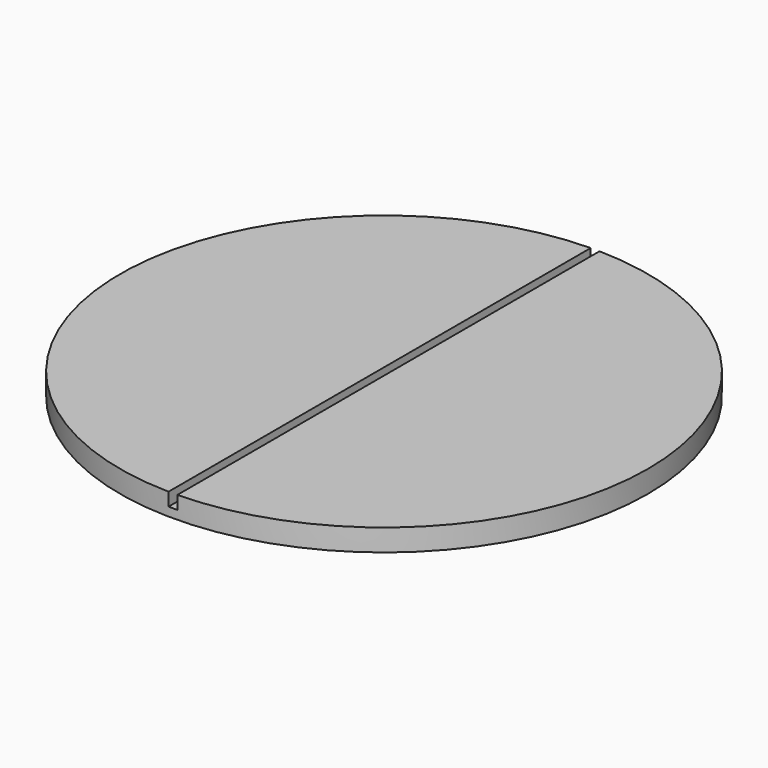
from build123d import *

# Parameters (mm, degrees)
F0_R     = 76.2
F1_DEPTH = 6.35
F3_DEPTH = 3.81


with BuildPart() as f1:
    # F0 (on Top) → F1 (new body)
    with BuildSketch(Plane.XY):
        Circle(F0_R)
    extrude(amount=F1_DEPTH)

    # F2 (on face) → F3 (cut)
    with BuildSketch(Plane.XY.offset(6.35)):
        with BuildLine():
            Line((0, 76.2), (-1.27, 76.2))
            Line((-1.27, 76.2), (-1.27, 76.1894159316))
            ThreePointArc((-1.27, 76.1894159316), (-0.6350220513, 76.197353937), (0, 76.2))
        make_face()
        with BuildLine():
            Line((1.27, 76.2), (0, 76.2))
            ThreePointArc((0, 76.2), (0.6350220513, 76.197353937), (1.27, 76.1894159316))
            Line((1.27, 76.1894159316), (1.27, 76.2))
        make_face()
        with BuildLine():
            ThreePointArc((0, -76.2), (-0.6350220513, -76.197353937), (-1.27, -76.1894159316))
            Line((-1.27, -76.1894159316), (-1.27, -76.2))
            Line((-1.27, -76.2), (0, -76.2))
        make_face()
        with BuildLine():
            Line((1.27, -76.2), (1.27, -76.1894159316))
            ThreePointArc((1.27, -76.1894159316), (0.6350220513, -76.197353937), (0, -76.2))
            Line((0, -76.2), (1.27, -76.2))
        make_face()
        with BuildLine():
            ThreePointArc((1.27, 76.1894159316), (0.6350220513, 76.197353937), (0, 76.2))
            ThreePointArc((0, 76.2), (-0.6350220513, 76.197353937), (-1.27, 76.1894159316))
            Line((-1.27, 76.1894159316), (-1.27, -76.1894159316))
            ThreePointArc((-1.27, -76.1894159316), (-0.6350220513, -76.197353937), (0, -76.2))
            ThreePointArc((0, -76.2), (0.6350220513, -76.197353937), (1.27, -76.1894159316))
            Line((1.27, -76.1894159316), (1.27, 76.1894159316))
        make_face()
    extrude(amount=-F3_DEPTH, mode=Mode.SUBTRACT)


solid = f1.part
